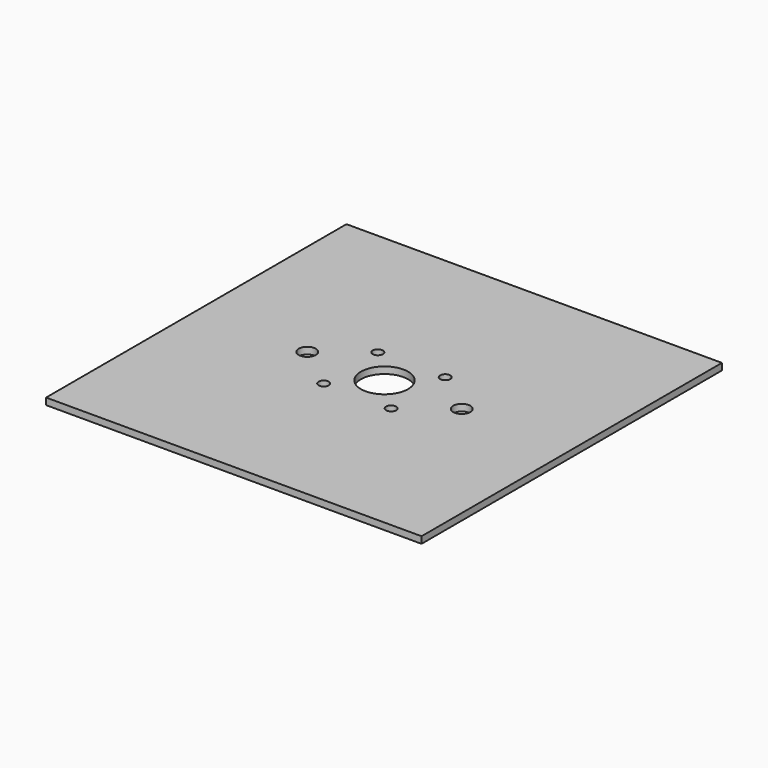
from build123d import *

# Parameters (mm, degrees)
F0_W     = 177.8
F0_H     = 177.8
F0_R     = 2.413
F0_R_2   = 4.05
F0_R_3   = 11.176
F1_DEPTH = 3.175


with BuildPart() as f1:
    # F0 (on Top) → F1 (new body)
    with BuildSketch(Plane.XY):
        Rectangle(F0_W, F0_H)
        with Locations((-15.735106, -16.002)):
            Circle(F0_R, mode=Mode.SUBTRACT)
        with Locations((16.194301, -16.002)):
            Circle(F0_R, mode=Mode.SUBTRACT)
        with Locations((-36.346402, 0)):
            Circle(F0_R_2, mode=Mode.SUBTRACT)
        with Locations((-15.735106, 16.002)):
            Circle(F0_R, mode=Mode.SUBTRACT)
        with Locations((0.229598, 0)):
            Circle(F0_R_3, mode=Mode.SUBTRACT)
        with Locations((16.194301, 16.002)):
            Circle(F0_R, mode=Mode.SUBTRACT)
        with Locations((36.805598, 0)):
            Circle(F0_R_2, mode=Mode.SUBTRACT)
    extrude(amount=F1_DEPTH)


solid = f1.part
